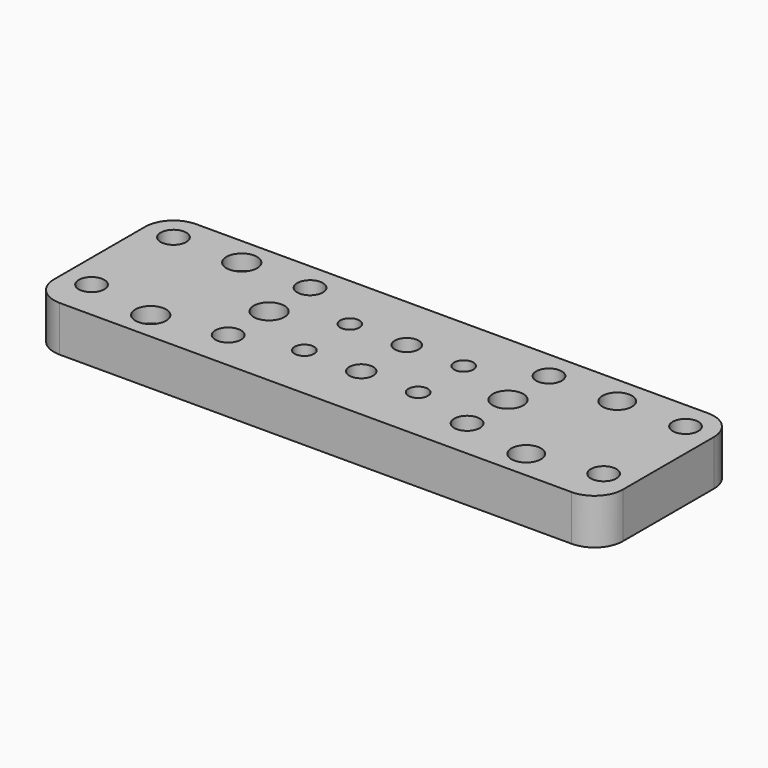
from build123d import *

# Parameters (mm, degrees)
SKETCH_W        = 100
SKETCH_H        = 30
PAD_DEPTH       = 8
SKETCH001_R     = 2.25
SKETCH001_R_2   = 2.7
SKETCH001_R_3   = 2.6
SKETCH001_R_4   = 2.1
POCKET_DEPTH    = 8.001
SKETCH002_R     = 1.7
POCKET001_DEPTH = 8.001
SKETCH003_R     = 4.6
POCKET002_DEPTH = 5.3
FILLET_R        = 5


with BuildPart() as part:
    # Sketch → Pad (new body)
    with BuildSketch(Plane.XY):
        with Locations((0, 35)):
            Rectangle(SKETCH_W, SKETCH_H)
    extrude(amount=PAD_DEPTH)

    # Sketch001 → Pocket (cut, through all)
    with BuildSketch(Plane.XY.offset(8)):
        with Locations((-21, 45)):
            Circle(SKETCH001_R)
        with Locations((-45, 27)):
            Circle(SKETCH001_R)
        with Locations((-45, 45)):
            Circle(SKETCH001_R)
        with Locations((-21, 27)):
            Circle(SKETCH001_R)
        with Locations((21, 27)):
            Circle(SKETCH001_R)
        with Locations((21, 45)):
            Circle(SKETCH001_R)
        with Locations((45, 27)):
            Circle(SKETCH001_R)
        with Locations((45, 45)):
            Circle(SKETCH001_R)
        with Locations((-33, 45)):
            Circle(SKETCH001_R_2)
        with Locations((-33, 25)):
            Circle(SKETCH001_R_2)
        with Locations((33, 45)):
            Circle(SKETCH001_R_3)
        with Locations((33, 25)):
            Circle(SKETCH001_R_3)
        with Locations((-21, 36)):
            Circle(SKETCH001_R_2)
        with Locations((21, 36)):
            Circle(SKETCH001_R_2)
        with Locations((0, 30)):
            Circle(SKETCH001_R_4)
        with Locations((0, 40)):
            Circle(SKETCH001_R_4)
    extrude(amount=-POCKET_DEPTH, mode=Mode.SUBTRACT)

    # Sketch002 → Pocket001 (cut, through all)
    with BuildSketch(Plane.XY.offset(8)):
        with Locations((-10, 30)):
            Circle(SKETCH002_R)
        with Locations((-10, 40)):
            Circle(SKETCH002_R)
        with Locations((10, 40)):
            Circle(SKETCH002_R)
        with Locations((10, 30)):
            Circle(SKETCH002_R)
    extrude(amount=-POCKET001_DEPTH, mode=Mode.SUBTRACT)

    # Sketch003 → Pocket002 (cut)
    with BuildSketch(Plane(origin=(0, 0, 0), x_dir=(1, 0, 0), z_dir=(0, 0, -1))):
        with Locations((-33, -25)):
            Circle(SKETCH003_R)
        with Locations((33, -45)):
            Circle(SKETCH003_R)
        with Locations((33, -25)):
            Circle(SKETCH003_R)
        with Locations((-33, -45)):
            Circle(SKETCH003_R)
    extrude(amount=-POCKET002_DEPTH, mode=Mode.SUBTRACT)

    # Fillet
    fillet_edges = [part.edges().sort_by_distance(p)[0] for p in [
        (-50, 20, 4),
        (50, 20, 4),
        (-50, 50, 4),
        (50, 50, 4),
    ]]
    fillet(fillet_edges, radius=FILLET_R)


solid = part.part
